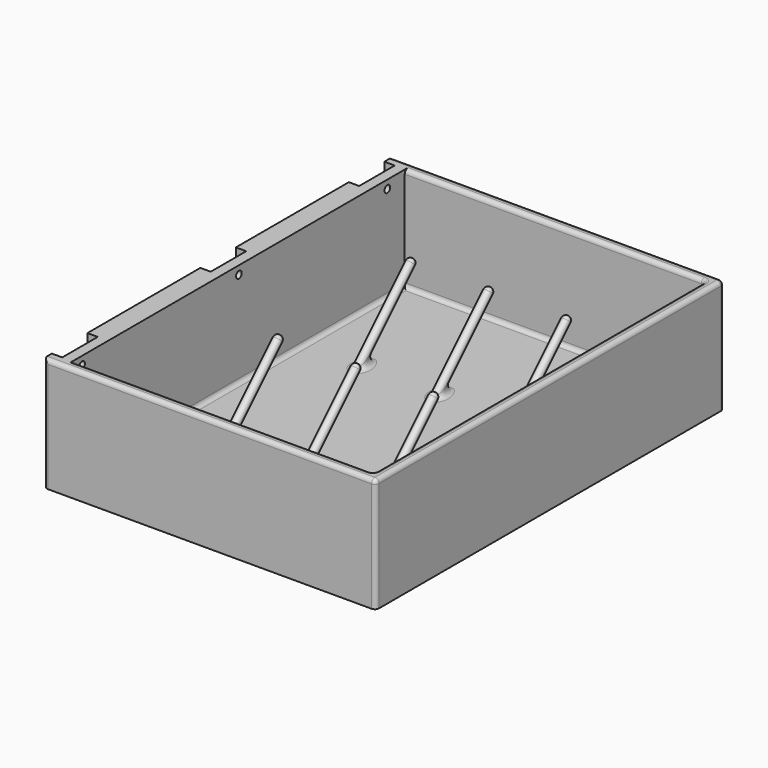
from build123d import *

# Parameters (mm, degrees)
BOX022_W                    = 10
BOX022_H                    = 10
BOX022_DEPTH                = 10
CYLINDER020_R               = 2
CYLINDER020_DEPTH           = 50
CYLINDER020_PLACEMENT_ANGLE = 315
BOX023_W                    = 10
BOX023_H                    = 10
BOX023_DEPTH                = 10
CYLINDER021_R               = 2
CYLINDER021_DEPTH           = 50
CYLINDER021_PLACEMENT_ANGLE = 315
BOX024_W                    = 10
BOX024_H                    = 10
BOX024_DEPTH                = 10
CYLINDER022_R               = 2
CYLINDER022_DEPTH           = 50
CYLINDER022_PLACEMENT_ANGLE = 315
BOX025_W                    = 10
BOX025_H                    = 10
BOX025_DEPTH                = 10
CYLINDER023_R               = 2
CYLINDER023_DEPTH           = 50
CYLINDER023_PLACEMENT_ANGLE = 315
BOX026_W                    = 10
BOX026_H                    = 10
BOX026_DEPTH                = 10
CYLINDER024_R               = 2
CYLINDER024_DEPTH           = 50
CYLINDER024_PLACEMENT_ANGLE = 315
BOX021_W                    = 10
BOX021_H                    = 10
BOX021_DEPTH                = 10
CYLINDER019_R               = 2
CYLINDER019_DEPTH           = 50
CYLINDER019_PLACEMENT_ANGLE = 315
CYLINDER016_R               = 3.15
CYLINDER016_DEPTH           = 10
CYLINDER015_R               = 1.7
CYLINDER015_DEPTH           = 10
CYLINDER018_R               = 3.15
CYLINDER018_DEPTH           = 10
CYLINDER017_R               = 1.7
CYLINDER017_DEPTH           = 10
CYLINDER014_R               = 3.15
CYLINDER014_DEPTH           = 10
CYLINDER013_R               = 1.7
CYLINDER013_DEPTH           = 10
FUSION026_PLACEMENT_ANGLE   = 90
BOX019_W                    = 8.4
BOX019_H                    = 21.4
BOX019_DEPTH                = 5
BOX020_W                    = 8.4
BOX020_H                    = 21.4
BOX020_DEPTH                = 5
BOX018_W                    = 8.4
BOX018_H                    = 21.4
BOX018_DEPTH                = 5
FUSION017_PLACEMENT_ANGLE   = 90
BOX_W                       = 145
BOX_H                       = 200
BOX_DEPTH                   = 50
BOX001_W                    = 160
BOX001_H                    = 210
BOX001_DEPTH                = 55
FILLET_R                    = 3
FILLET001_R                 = 2
FILLET002_R                 = 2
FILLET003_R                 = 2


with BuildPart() as cube022:
    # Box022 → Box022 (new body)
    with BuildSketch(Plane(origin=(-5, -5, -10), x_dir=(1, 0, 0), z_dir=(0, 0, 1))):
        with Locations((5, 5)):
            Rectangle(BOX022_W, BOX022_H)
    extrude(amount=BOX022_DEPTH)


with BuildPart() as cut012:
    # Cylinder020 → Cylinder020 (new body)
    with BuildSketch(Plane.XY):
        Circle(CYLINDER020_R)
    extrude(amount=CYLINDER020_DEPTH)


with BuildPart() as cut012_1:
    # Cylinder020 placement: moved
    add(cut012.part.moved(Location((0, 0, -2))).rotate(Axis((0, 0, -2), (1, 0, 0)), CYLINDER020_PLACEMENT_ANGLE))

    # Cut012: cut Cube022
    add(cube022.part, mode=Mode.SUBTRACT)


with BuildPart() as cut012_2:
    # Cut012 placement: moved
    add(cut012_1.part.moved(Location((37.5, 140, 5))))


with BuildPart() as cube023:
    # Box023 → Box023 (new body)
    with BuildSketch(Plane(origin=(-5, -5, -10), x_dir=(1, 0, 0), z_dir=(0, 0, 1))):
        with Locations((5, 5)):
            Rectangle(BOX023_W, BOX023_H)
    extrude(amount=BOX023_DEPTH)


with BuildPart() as cut013:
    # Cylinder021 → Cylinder021 (new body)
    with BuildSketch(Plane.XY):
        Circle(CYLINDER021_R)
    extrude(amount=CYLINDER021_DEPTH)


with BuildPart() as cut013_1:
    # Cylinder021 placement: moved
    add(cut013.part.moved(Location((0, 0, -2))).rotate(Axis((0, 0, -2), (1, 0, 0)), CYLINDER021_PLACEMENT_ANGLE))

    # Cut013: cut Cube023
    add(cube023.part, mode=Mode.SUBTRACT)


with BuildPart() as cut013_2:
    # Cut013 placement: moved
    add(cut013_1.part.moved(Location((75, 60, 5))))


with BuildPart() as cube024:
    # Box024 → Box024 (new body)
    with BuildSketch(Plane(origin=(-5, -5, -10), x_dir=(1, 0, 0), z_dir=(0, 0, 1))):
        with Locations((5, 5)):
            Rectangle(BOX024_W, BOX024_H)
    extrude(amount=BOX024_DEPTH)


with BuildPart() as cut014:
    # Cylinder022 → Cylinder022 (new body)
    with BuildSketch(Plane.XY):
        Circle(CYLINDER022_R)
    extrude(amount=CYLINDER022_DEPTH)


with BuildPart() as cut014_1:
    # Cylinder022 placement: moved
    add(cut014.part.moved(Location((0, 0, -2))).rotate(Axis((0, 0, -2), (1, 0, 0)), CYLINDER022_PLACEMENT_ANGLE))

    # Cut014: cut Cube024
    add(cube024.part, mode=Mode.SUBTRACT)


with BuildPart() as cut014_2:
    # Cut014 placement: moved
    add(cut014_1.part.moved(Location((112.5, 60, 5))))


with BuildPart() as cube025:
    # Box025 → Box025 (new body)
    with BuildSketch(Plane(origin=(-5, -5, -10), x_dir=(1, 0, 0), z_dir=(0, 0, 1))):
        with Locations((5, 5)):
            Rectangle(BOX025_W, BOX025_H)
    extrude(amount=BOX025_DEPTH)


with BuildPart() as cut015:
    # Cylinder023 → Cylinder023 (new body)
    with BuildSketch(Plane.XY):
        Circle(CYLINDER023_R)
    extrude(amount=CYLINDER023_DEPTH)


with BuildPart() as cut015_1:
    # Cylinder023 placement: moved
    add(cut015.part.moved(Location((0, 0, -2))).rotate(Axis((0, 0, -2), (1, 0, 0)), CYLINDER023_PLACEMENT_ANGLE))

    # Cut015: cut Cube025
    add(cube025.part, mode=Mode.SUBTRACT)


with BuildPart() as cut015_2:
    # Cut015 placement: moved
    add(cut015_1.part.moved(Location((75, 140, 5))))


with BuildPart() as cube026:
    # Box026 → Box026 (new body)
    with BuildSketch(Plane(origin=(-5, -5, -10), x_dir=(1, 0, 0), z_dir=(0, 0, 1))):
        with Locations((5, 5)):
            Rectangle(BOX026_W, BOX026_H)
    extrude(amount=BOX026_DEPTH)


with BuildPart() as cut016:
    # Cylinder024 → Cylinder024 (new body)
    with BuildSketch(Plane.XY):
        Circle(CYLINDER024_R)
    extrude(amount=CYLINDER024_DEPTH)


with BuildPart() as cut016_1:
    # Cylinder024 placement: moved
    add(cut016.part.moved(Location((0, 0, -2))).rotate(Axis((0, 0, -2), (1, 0, 0)), CYLINDER024_PLACEMENT_ANGLE))

    # Cut016: cut Cube026
    add(cube026.part, mode=Mode.SUBTRACT)


with BuildPart() as cut016_2:
    # Cut016 placement: moved
    add(cut016_1.part.moved(Location((112.5, 140, 5))))


with BuildPart() as cube021:
    # Box021 → Box021 (new body)
    with BuildSketch(Plane(origin=(-5, -5, -10), x_dir=(1, 0, 0), z_dir=(0, 0, 1))):
        with Locations((5, 5)):
            Rectangle(BOX021_W, BOX021_H)
    extrude(amount=BOX021_DEPTH)


with BuildPart() as fusion027:
    # Cylinder019 → Cylinder019 (new body)
    with BuildSketch(Plane.XY):
        Circle(CYLINDER019_R)
    extrude(amount=CYLINDER019_DEPTH)


with BuildPart() as fusion027_1:
    # Cylinder019 placement: moved
    add(fusion027.part.moved(Location((0, 0, -2))).rotate(Axis((0, 0, -2), (1, 0, 0)), CYLINDER019_PLACEMENT_ANGLE))

    # Cut011: cut Cube021
    add(cube021.part, mode=Mode.SUBTRACT)


with BuildPart() as fusion027_2:
    # Cut011 placement: moved
    add(fusion027_1.part.moved(Location((37.5, 60, 5))))

    # Fusion027: union Cut012, Cut013, Cut014, Cut015, Cut016
    add(cut012_2.part)
    add(cut013_2.part)
    add(cut014_2.part)
    add(cut015_2.part)
    add(cut016_2.part)


with BuildPart() as cylinder016:
    # Cylinder016 → Cylinder016 (new body)
    with BuildSketch(Plane(origin=(-4, 10.5, 60), x_dir=(1, 0, 0), z_dir=(0, 0, 1))):
        Circle(CYLINDER016_R)
    extrude(amount=CYLINDER016_DEPTH)


with BuildPart() as fusion024:
    # Cylinder015 → Cylinder015 (new body)
    with BuildSketch(Plane(origin=(-4, 10.5, 50), x_dir=(1, 0, 0), z_dir=(0, 0, 1))):
        Circle(CYLINDER015_R)
    extrude(amount=CYLINDER015_DEPTH)

    # Fusion024: union Cylinder016
    add(cylinder016.part)


with BuildPart() as fusion024_1:
    # Fusion024 placement: moved
    add(fusion024.part.moved(Location((0, 184, 0))))


with BuildPart() as cylinder018:
    # Cylinder018 → Cylinder018 (new body)
    with BuildSketch(Plane(origin=(-4, 10.5, 60), x_dir=(1, 0, 0), z_dir=(0, 0, 1))):
        Circle(CYLINDER018_R)
    extrude(amount=CYLINDER018_DEPTH)


with BuildPart() as fusion025:
    # Cylinder017 → Cylinder017 (new body)
    with BuildSketch(Plane(origin=(-4, 10.5, 50), x_dir=(1, 0, 0), z_dir=(0, 0, 1))):
        Circle(CYLINDER017_R)
    extrude(amount=CYLINDER017_DEPTH)

    # Fusion025: union Cylinder018
    add(cylinder018.part)


with BuildPart() as fusion025_1:
    # Fusion025 placement: moved
    add(fusion025.part.moved(Location((0, 94.5, 0))))


with BuildPart() as cylinder014:
    # Cylinder014 → Cylinder014 (new body)
    with BuildSketch(Plane(origin=(-4, 10.5, 60), x_dir=(1, 0, 0), z_dir=(0, 0, 1))):
        Circle(CYLINDER014_R)
    extrude(amount=CYLINDER014_DEPTH)


with BuildPart() as fusion026:
    # Cylinder013 → Cylinder013 (new body)
    with BuildSketch(Plane(origin=(-4, 10.5, 50), x_dir=(1, 0, 0), z_dir=(0, 0, 1))):
        Circle(CYLINDER013_R)
    extrude(amount=CYLINDER013_DEPTH)

    # Fusion023: union Cylinder014
    add(cylinder014.part)

    # Fusion026: union Fusion024, Fusion025
    add(fusion024_1.part)
    add(fusion025_1.part)


with BuildPart() as fusion026_1:
    # Fusion026 placement: moved
    add(fusion026.part.moved(Location((-50, 0, 47))).rotate(Axis((-50, 0, 47), (0, 1, 0)), FUSION026_PLACEMENT_ANGLE))


with BuildPart() as cube019:
    # Box019 → Box019 (new body)
    with BuildSketch(Plane(origin=(0, 183.8, 55), x_dir=(1, 0, 0), z_dir=(0, 0, 1))):
        with Locations((4.2, 10.7)):
            Rectangle(BOX019_W, BOX019_H)
    extrude(amount=BOX019_DEPTH)


with BuildPart() as cube020:
    # Box020 → Box020 (new body)
    with BuildSketch(Plane(origin=(0, 94.3, 55), x_dir=(1, 0, 0), z_dir=(0, 0, 1))):
        with Locations((4.2, 10.7)):
            Rectangle(BOX020_W, BOX020_H)
    extrude(amount=BOX020_DEPTH)


with BuildPart() as fusion017:
    # Box018 → Box018 (new body)
    with BuildSketch(Plane(origin=(0, 4.8, 55), x_dir=(1, 0, 0), z_dir=(0, 0, 1))):
        with Locations((4.2, 10.7)):
            Rectangle(BOX018_W, BOX018_H)
    extrude(amount=BOX018_DEPTH)

    # Fusion017: union Cube019, Cube020
    add(cube019.part)
    add(cube020.part)


with BuildPart() as fusion017_1:
    # Fusion017 placement: moved
    add(fusion017.part.moved(Location((-55, 0, 55))).rotate(Axis((-55, 0, 55), (0, 1, 0)), FUSION017_PLACEMENT_ANGLE))


with BuildPart() as cube:
    # Box → Box (new body)
    with BuildSketch(Plane(origin=(10, 5, 5), x_dir=(1, 0, 0), z_dir=(0, 0, 1))):
        with Locations((72.5, 100)):
            Rectangle(BOX_W, BOX_H)
    extrude(amount=BOX_DEPTH)


with BuildPart() as fillet003:
    # Box001 → Box001 (new body)
    with BuildSketch(Plane.XY):
        with Locations((80, 105)):
            Rectangle(BOX001_W, BOX001_H)
    extrude(amount=BOX001_DEPTH)

    # Cut: cut Cube
    add(cube.part, mode=Mode.SUBTRACT)

    # Cut009: cut Fusion017
    add(fusion017_1.part, mode=Mode.SUBTRACT)

    # Cut010: cut Fusion026
    add(fusion026_1.part, mode=Mode.SUBTRACT)

    # Fusion028: union Fusion027
    add(fusion027_2.part)

    # Fillet
    fillet_edges = [fillet003.edges().sort_by_distance(p)[0] for p in [
        (35.5, 62.000771, 5),
        (73, 62.000771, 5),
        (110.5, 62.000771, 5),
        (35.5, 142.000771, 5),
        (73, 142.000771, 5),
        (110.5, 142.000771, 5),
    ]]
    fillet(fillet_edges, radius=FILLET_R)

    # Fillet001
    fillet001_edges = [fillet003.edges().sort_by_distance(p)[0] for p in [
        (10, 105, 5),
        (82.5, 205, 5),
        (82.5, 5, 5),
        (155, 105, 5),
        (155, 205, 30),
        (155, 5, 30),
    ]]
    fillet(fillet001_edges, radius=FILLET001_R)

    # Fillet002
    fillet002_edges = [fillet003.edges().sort_by_distance(p)[0] for p in [
        (81.5, 5, 55),
        (155, 105, 55),
        (80, 210, 55),
        (160, 105, 55),
        (80, 0, 55),
        (0, 210, 27.5),
        (0, 0, 27.5),
        (160, 210, 27.5),
        (160, 0, 27.5),
    ]]
    fillet(fillet002_edges, radius=FILLET002_R)

    # Fillet003
    fillet003_edges = [fillet003.edges().sort_by_distance(p)[0] for p in [
        (35.5, 95.355339, 38.355339),
        (73, 95.355339, 38.355339),
        (110.5, 95.355339, 38.355339),
        (35.5, 175.355339, 38.355339),
        (73, 175.355339, 38.355339),
        (110.5, 175.355339, 38.355339),
    ]]
    fillet(fillet003_edges, radius=FILLET003_R)


solid = fillet003.part
